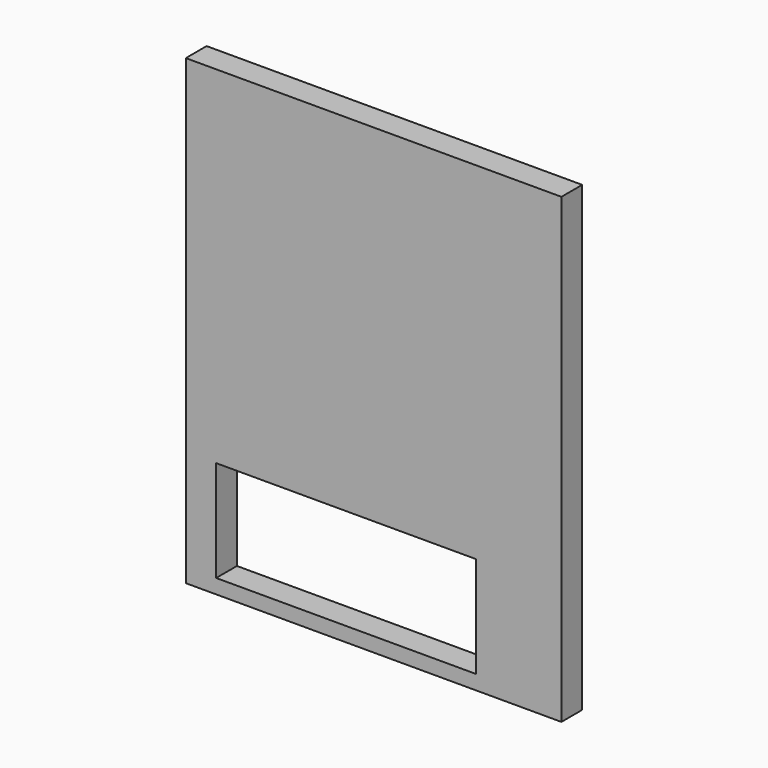
from build123d import *

# Parameters (mm, degrees)
BOX013_W     = 180
BOX013_H     = 40
BOX013_DEPTH = 70
BOX012_W     = 260
BOX012_H     = 18
BOX012_DEPTH = 320


with BuildPart() as cube002:
    # Box013 → Box013 (new body)
    with BuildSketch(Plane(origin=(-11, 148, 0), x_dir=(1, 0, 0), z_dir=(0, 0, 1))):
        with Locations((90, 20)):
            Rectangle(BOX013_W, BOX013_H)
    extrude(amount=BOX013_DEPTH)


with BuildPart() as obj1:
    # Box012 → Box012 (new body)
    with BuildSketch(Plane(origin=(-32, 153, -10), x_dir=(1, 0, 0), z_dir=(0, 0, 1))):
        with Locations((130, 9)):
            Rectangle(BOX012_W, BOX012_H)
    extrude(amount=BOX012_DEPTH)

    # Cut008: cut Cube002
    add(cube002.part, mode=Mode.SUBTRACT)


with BuildPart() as obj1_1:
    # Cut008 placement: moved
    add(obj1.part.moved(Location((0, 2, 0))))


solid = obj1_1.part
